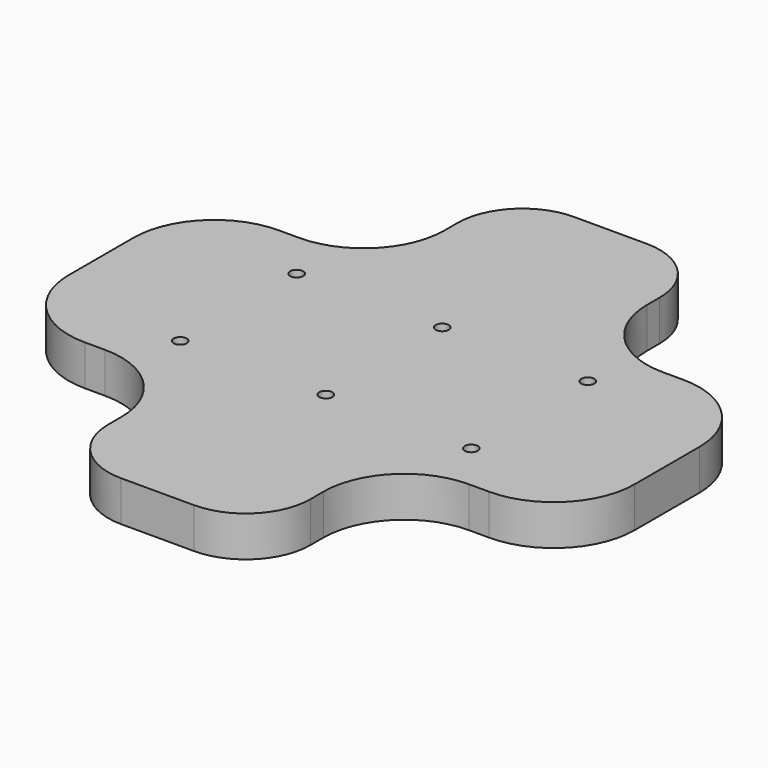
from build123d import *

# Parameters (mm, degrees)
F1_DEPTH = 6.35
F2_R     = 1.0287
F3_DEPTH = 25.4
F4_R     = 12.7
F5_R     = 10.16


with BuildPart() as f1:
    # F0 (on Top) → F1 (new body)
    with BuildSketch(Plane.XY):
        Polygon((15.875, -19.05), (44.45, -19.05), (44.45, 19.05), (15.875, 19.05), (15.875, 44.45), (-15.875, 44.45), (-15.875, 19.05), (-44.45, 19.05), (-44.45, -19.05), (-15.875, -19.05), (-15.875, -44.45), (15.875, -44.45), align=None)
    extrude(amount=F1_DEPTH)

    # F2 (on face) → F3 (cut)
    with BuildSketch(Plane.XY.offset(6.35)):
        with Locations((-22.86, 11.43)):
            Circle(F2_R)
        with Locations((-22.86, -11.43)):
            Circle(F2_R)
        with Locations((0, 11.43)):
            Circle(F2_R)
        with Locations((0, -11.43)):
            Circle(F2_R)
        with Locations((22.86, 11.43)):
            Circle(F2_R)
        with Locations((22.86, -11.43)):
            Circle(F2_R)
    extrude(amount=-F3_DEPTH, mode=Mode.SUBTRACT)

    # F4
    f4_edges = [f1.edges().sort_by_distance(p)[0] for p in [
        (-44.45, -19.05, 3.175),
        (-44.45, 19.05, 3.175),
        (44.45, 19.05, 3.175),
        (44.45, -19.05, 3.175),
        (-15.875, -19.05, 3.175),
        (-15.875, 19.05, 3.175),
        (15.875, 19.05, 3.175),
        (15.875, -19.05, 3.175),
    ]]
    fillet(f4_edges, radius=F4_R)

    # F5
    f5_edges = [f1.edges().sort_by_distance(p)[0] for p in [
        (-15.875, 44.45, 3.175),
        (15.875, 44.45, 3.175),
        (-15.875, -44.45, 3.175),
        (15.875, -44.45, 3.175),
    ]]
    fillet(f5_edges, radius=F5_R)


solid = f1.part
